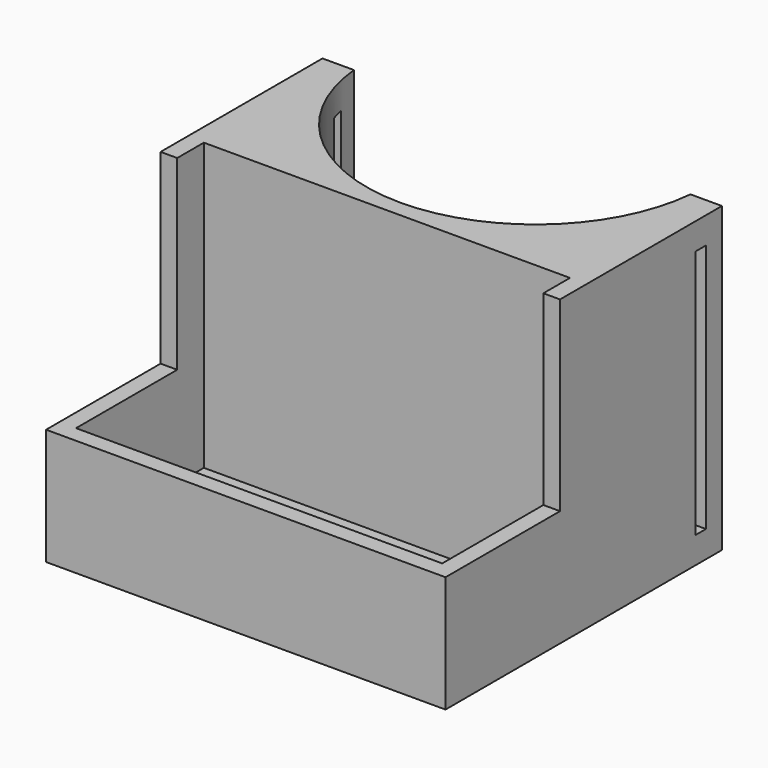
from build123d import *

# Parameters (mm, degrees)
F0_W      = 55
F0_H      = 55
F1_DEPTH  = 24
F2_W      = 60
F2_H      = 29
F3_DEPTH  = 2.5
F4_DEPTH  = 15
F5_W      = 22
F5_H      = 10
F6_DEPTH  = 2.5
F7_W      = 2.5
F7_H      = 5
F8_DEPTH  = 28
F9_DEPTH  = 25.4
F11_DEPTH = 46
F12_W     = 2
F12_H     = 37.5
F13_DEPTH = 60
F14_DEPTH = 24


with BuildPart() as f1:
    # F0 (on Front) → F1 (new body)
    with BuildSketch(Plane.XZ):
        Rectangle(F0_W, F0_H)
    extrude(amount=F1_DEPTH)

    # F2 (on face) → F3 (join)
    with BuildSketch(Plane(origin=(0, 0, -27.5), x_dir=(1, 0, 0), z_dir=(0, 0, -1))):
        with Locations((0, 12)):
            Rectangle(F2_W, F2_H)
    extrude(amount=F3_DEPTH)

    # F2 (on face) → F4 (join)
    with BuildSketch(Plane(origin=(0, 0, -27.5), x_dir=(1, 0, 0), z_dir=(0, 0, -1))):
        with Locations((0, 12)):
            Rectangle(F2_W, F2_H)
    extrude(amount=-F4_DEPTH)

    # F5 (on face) → F6 (cut)
    with BuildSketch(Plane(origin=(0, 0, -30), x_dir=(1, 0, 0), z_dir=(0, 0, -1))):
        with Locations((-7, 8)):
            Rectangle(F5_W, F5_H)
    extrude(amount=-F6_DEPTH, mode=Mode.SUBTRACT)

    # F7 (on face) → F8 (join)
    with BuildSketch(Plane.XY.offset(-12.5)):
        Polygon((30, 2.5), (-30, 2.5), (-30, 0), (-27.5, 0), (27.5, 0), (30, 0), align=None)
        with Locations((-28.75, -2.5)):
            Rectangle(F7_W, F7_H)
        with Locations((28.75, -2.5)):
            Rectangle(F7_W, F7_H)
    extrude(amount=F8_DEPTH)

    # F9 (add): a face of the model
    f9_faces = [f1.faces().sort_by_distance(p)[0] for p in [
        (0, 2.5, -7.25),
    ]]
    extrude(f9_faces, amount=F9_DEPTH)

    # F10 (on face) → F11 (cut)
    with BuildSketch(Plane.XY.offset(15.5)):
        with BuildLine():
            Line((-25.4, 27.9), (25.4, 27.9))
            ThreePointArc((25.4, 27.9), (0, 53.3), (-25.4, 27.9))
        make_face()
        with BuildLine():
            Line((30, 27.9), (25.4, 27.9))
            ThreePointArc((25.4, 27.9), (25.3691485346, 26.6484798728), (25.2766690844, 25.4))
            Line((25.2766690844, 25.4), (30, 25.4))
            Line((30, 25.4), (30, 27.9))
        make_face()
        with BuildLine():
            ThreePointArc((25.2766690844, 25.4), (25.3691485346, 26.6484798728), (25.4, 27.9))
            Line((25.4, 27.9), (-25.4, 27.9))
            ThreePointArc((-25.4, 27.9), (-25.3691485346, 26.6484798728), (-25.2766690844, 25.4))
            Line((-25.2766690844, 25.4), (25.2766690844, 25.4))
        make_face()
        with BuildLine():
            ThreePointArc((-25.2766690844, 25.4), (-25.3691485346, 26.6484798728), (-25.4, 27.9))
            Line((-25.4, 27.9), (-30, 27.9))
            Line((-30, 27.9), (-30, 25.4))
            Line((-30, 25.4), (-25.2766690844, 25.4))
        make_face()
        with BuildLine():
            ThreePointArc((-25.2766690844, 25.4), (0, 2.5), (25.2766690844, 25.4))
            Line((25.2766690844, 25.4), (-25.2766690844, 25.4))
        make_face()
    extrude(amount=-F11_DEPTH, mode=Mode.SUBTRACT)

    # F12 (on face) → F13 (cut)
    with BuildSketch(Plane.YZ.offset(30)):
        with Locations((21.4, -7.25)):
            Rectangle(F12_W, F12_H)
    extrude(amount=-F13_DEPTH, mode=Mode.SUBTRACT)

    # F0 (on Front) → F14 (cut)
    with BuildSketch(Plane.XZ):
        Rectangle(F0_W, F0_H)
    extrude(amount=F14_DEPTH, mode=Mode.SUBTRACT)


solid = f1.part
